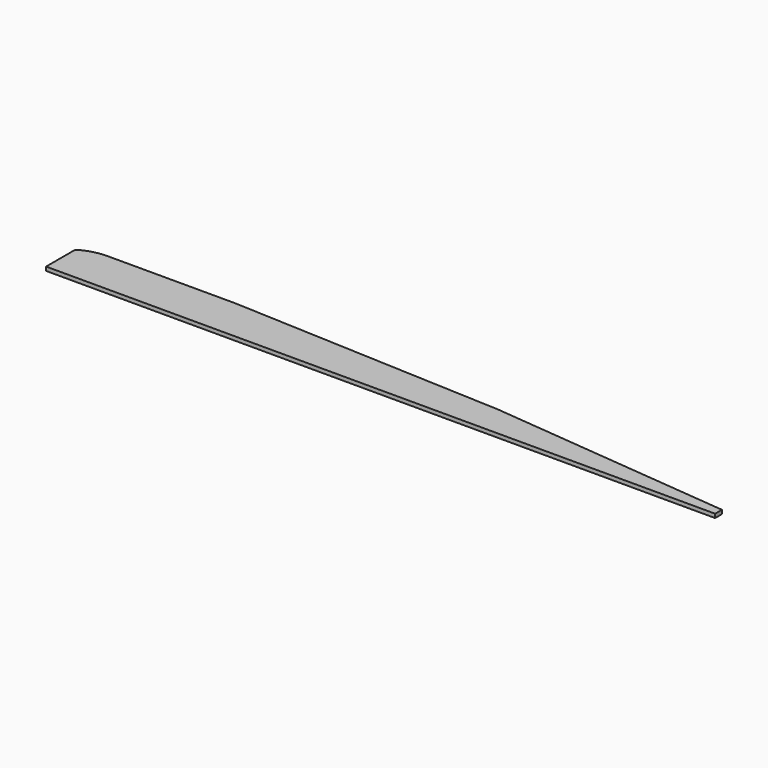
from build123d import *

# Parameters (mm, degrees)
F1_DEPTH = 4.318


with BuildPart() as f1:
    # F0 (on Top) → F1 (new body)
    with BuildSketch(Plane.XY):
        with BuildLine():
            add(Edge.make_bspline(
                [(0, 38.7419006444), (0, 40.780224347), (4.0504073247, 43.2264357913), (13.3197663427, 47.2353910075), (23.679706238, 49.0470707989), (29.4917598367, 49.0470707989)],
                knots=[0, 0, 0, 0, 0.243800261, 0.5764746481, 1, 1, 1, 1], degree=3))
            Line((0, 38.7419006444), (0, 0))
            Line((0, 0), (749.3, 0))
            Line((749.3, 0), (749.3, 9.525))
            Line((749.3, 9.525), (477.4143925697, 35.56))
            Line((477.4143925697, 35.56), (172.9129329324, 49.0470707989))
            Line((172.9129329324, 49.0470707989), (29.4917598367, 49.0470707989))
        make_face()
    extrude(amount=F1_DEPTH)


solid = f1.part
